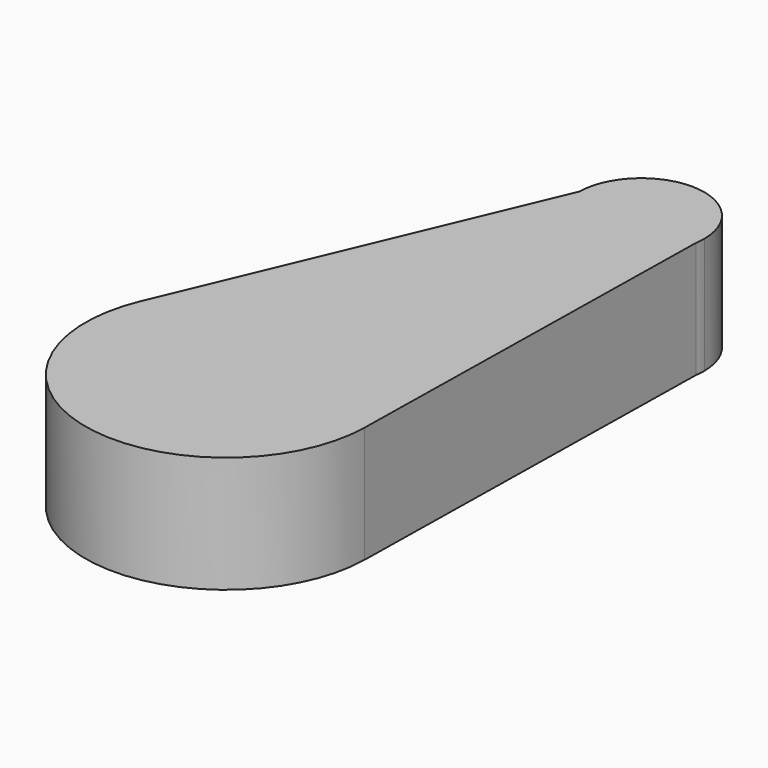
from build123d import *

# Parameters (mm, degrees)
F1_DEPTH = 25.4


with BuildPart() as f1:
    # F0 (on Top) → F1 (new body)
    with BuildSketch(Plane.XY):
        with BuildLine():
            ThreePointArc((58.27146, 32.780244), (58.386431, 33.802039), (58.424826, 34.829564))
            ThreePointArc((58.424826, 34.829564), (44.769133, 48.597613), (30.889651, 35.055195))
            ThreePointArc((30.889651, 35.055195), (43.516319, 21.108327), (58.27146, 32.780244))
        make_face()
        with BuildLine():
            ThreePointArc((58.27146, 32.780244), (43.516319, 21.108327), (30.889651, 35.055195))
            Line((30.889651, 35.055195), (-2.214213, -43.253216))
            ThreePointArc((-2.214213, -43.253216), (32.164049, -25.117403), (56.767542, -55.207945))
            ThreePointArc((56.767542, -55.207945), (56.766428, -55.469526), (56.763085, -55.731088))
            Line((56.763085, -55.731088), (58.27146, 32.780244))
        make_face()
        with BuildLine():
            ThreePointArc((56.767542, -55.207945), (32.164049, -25.117403), (-2.214213, -43.253216))
            ThreePointArc((-2.214213, -43.253216), (19.710086, -85.245434), (56.763085, -55.731088))
            ThreePointArc((56.763085, -55.731088), (56.766428, -55.469526), (56.767542, -55.207945))
        make_face()
        with BuildLine():
            ThreePointArc((58.27146, 32.780244), (43.516319, 21.108327), (30.889651, 35.055195))
            Line((30.889651, 35.055195), (-2.214213, -43.253216))
            ThreePointArc((-2.214213, -43.253216), (32.164049, -25.117403), (56.767542, -55.207945))
            ThreePointArc((56.767542, -55.207945), (56.766428, -55.469526), (56.763085, -55.731088))
            Line((56.763085, -55.731088), (58.27146, 32.780244))
        make_face()
        with BuildLine():
            ThreePointArc((56.767542, -55.207945), (32.164049, -25.117403), (-2.214213, -43.253216))
            ThreePointArc((-2.214213, -43.253216), (19.710086, -85.245434), (56.763085, -55.731088))
            ThreePointArc((56.763085, -55.731088), (56.766428, -55.469526), (56.767542, -55.207945))
        make_face()
    extrude(amount=F1_DEPTH)


solid = f1.part
